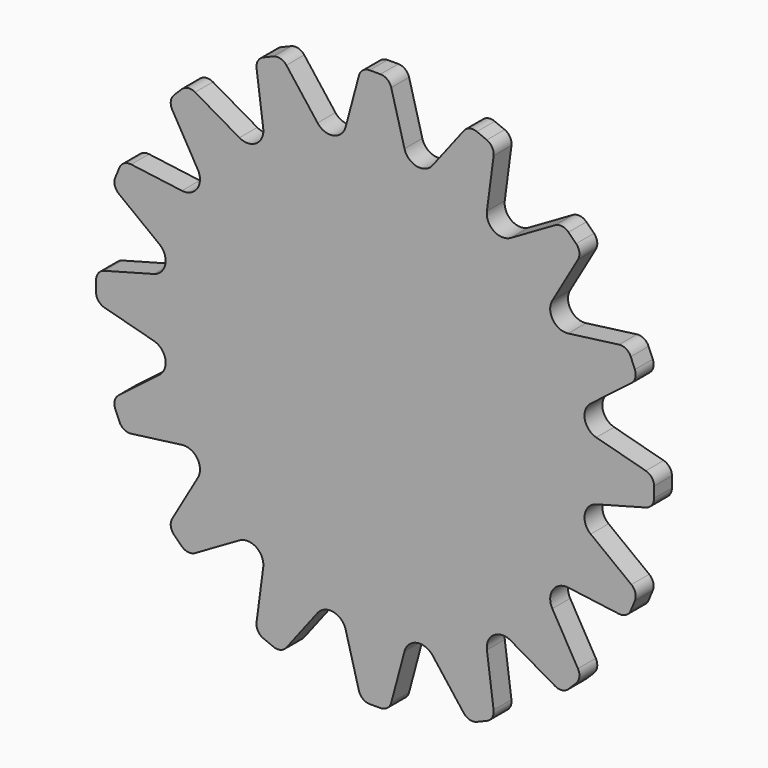
from build123d import *

# Parameters (mm, degrees)
F1_DEPTH = 2.54


with BuildPart() as f1:
    # F0 (on Front) → F1 (new body)
    with BuildSketch(Plane.XZ):
        with BuildLine():
            ThreePointArc((1.839721, 30.8087), (1.386122, 31.487559), (0.612995, 31.75))
            Line((0.612995, 31.75), (-0.612995, 31.75))
            ThreePointArc((-0.612995, 31.75), (-1.386122, 31.487559), (-1.839721, 30.8087))
            Line((-1.839721, 30.8087), (-3.348373, 25.178332))
            ThreePointArc((-3.348373, 25.178332), (-4.747603, 23.86781), (-6.541837, 24.543112))
            Line((-6.541837, 24.543112), (-10.090299, 29.167558))
            ThreePointArc((-10.090299, 29.167558), (-10.769158, 29.621157), (-11.583866, 29.567758))
            Line((-11.583866, 29.567758), (-12.716532, 29.098592))
            ThreePointArc((-12.716532, 29.098592), (-13.330377, 28.560265), (-13.489659, 27.759497))
            Line((-13.489659, 27.759497), (-12.728824, 21.980379))
            ThreePointArc((-12.728824, 21.980379), (-13.520029, 20.234153), (-15.436112, 20.171427))
            Line((-15.436112, 20.171427), (-20.484162, 23.08592))
            ThreePointArc((-20.484162, 23.08592), (-21.28493, 23.245202), (-22.017188, 22.884093))
            Line((-22.017188, 22.884093), (-22.884093, 22.017188))
            ThreePointArc((-22.884093, 22.017188), (-23.245202, 21.28493), (-23.08592, 20.484162))
            Line((-23.08592, 20.484162), (-20.171427, 15.436112))
            ThreePointArc((-20.171427, 15.436112), (-20.234153, 13.520029), (-21.980379, 12.728824))
            Line((-21.980379, 12.728824), (-27.759497, 13.489659))
            ThreePointArc((-27.759497, 13.489659), (-28.560265, 13.330377), (-29.098592, 12.716532))
            Line((-29.098592, 12.716532), (-29.567758, 11.583866))
            ThreePointArc((-29.567758, 11.583866), (-29.621157, 10.769158), (-29.167558, 10.090299))
            Line((-29.167558, 10.090299), (-24.543112, 6.541837))
            ThreePointArc((-24.543112, 6.541837), (-23.86781, 4.747603), (-25.178332, 3.348373))
            Line((-25.178332, 3.348373), (-30.8087, 1.839721))
            ThreePointArc((-30.8087, 1.839721), (-31.487559, 1.386122), (-31.75, 0.612995))
            Line((-31.75, 0.612995), (-31.75, -0.612995))
            ThreePointArc((-31.75, -0.612995), (-31.487559, -1.386122), (-30.8087, -1.839721))
            Line((-30.8087, -1.839721), (-25.178332, -3.348373))
            ThreePointArc((-25.178332, -3.348373), (-23.86781, -4.747603), (-24.543112, -6.541837))
            Line((-24.543112, -6.541837), (-29.167558, -10.090299))
            ThreePointArc((-29.167558, -10.090299), (-29.621157, -10.769158), (-29.567758, -11.583866))
            Line((-29.567758, -11.583866), (-29.098592, -12.716532))
            ThreePointArc((-29.098592, -12.716532), (-28.560265, -13.330377), (-27.759497, -13.489659))
            Line((-27.759497, -13.489659), (-21.980379, -12.728824))
            ThreePointArc((-21.980379, -12.728824), (-20.234153, -13.520029), (-20.171427, -15.436112))
            Line((-20.171427, -15.436112), (-23.08592, -20.484162))
            ThreePointArc((-23.08592, -20.484162), (-23.245202, -21.28493), (-22.884093, -22.017188))
            Line((-22.884093, -22.017188), (-22.017188, -22.884093))
            ThreePointArc((-22.017188, -22.884093), (-21.28493, -23.245202), (-20.484162, -23.08592))
            Line((-20.484162, -23.08592), (-15.436112, -20.171427))
            ThreePointArc((-15.436112, -20.171427), (-13.520029, -20.234153), (-12.728824, -21.980379))
            Line((-12.728824, -21.980379), (-13.489659, -27.759497))
            ThreePointArc((-13.489659, -27.759497), (-13.330377, -28.560265), (-12.716532, -29.098592))
            Line((-12.716532, -29.098592), (-11.583866, -29.567758))
            ThreePointArc((-11.583866, -29.567758), (-10.769158, -29.621157), (-10.090299, -29.167558))
            Line((-10.090299, -29.167558), (-6.541837, -24.543112))
            ThreePointArc((-6.541837, -24.543112), (-4.747603, -23.86781), (-3.348373, -25.178332))
            Line((-3.348373, -25.178332), (-1.839721, -30.8087))
            ThreePointArc((-1.839721, -30.8087), (-1.386122, -31.487559), (-0.612995, -31.75))
            Line((-0.612995, -31.75), (0.612995, -31.75))
            ThreePointArc((0.612995, -31.75), (1.386122, -31.487559), (1.839721, -30.8087))
            Line((1.839721, -30.8087), (3.348373, -25.178332))
            ThreePointArc((3.348373, -25.178332), (4.747603, -23.86781), (6.541837, -24.543112))
            Line((6.541837, -24.543112), (10.090299, -29.167558))
            ThreePointArc((10.090299, -29.167558), (10.769158, -29.621157), (11.583866, -29.567758))
            Line((11.583866, -29.567758), (12.716532, -29.098592))
            ThreePointArc((12.716532, -29.098592), (13.330377, -28.560265), (13.489659, -27.759497))
            Line((13.489659, -27.759497), (12.728824, -21.980379))
            ThreePointArc((12.728824, -21.980379), (13.520029, -20.234153), (15.436112, -20.171427))
            Line((15.436112, -20.171427), (20.484162, -23.08592))
            ThreePointArc((20.484162, -23.08592), (21.28493, -23.245202), (22.017188, -22.884093))
            Line((22.017188, -22.884093), (22.884093, -22.017188))
            ThreePointArc((22.884093, -22.017188), (23.245202, -21.28493), (23.08592, -20.484162))
            Line((23.08592, -20.484162), (20.171427, -15.436112))
            ThreePointArc((20.171427, -15.436112), (20.234153, -13.520029), (21.980379, -12.728824))
            Line((21.980379, -12.728824), (27.759497, -13.489659))
            ThreePointArc((27.759497, -13.489659), (28.560265, -13.330377), (29.098592, -12.716532))
            Line((29.098592, -12.716532), (29.567758, -11.583866))
            ThreePointArc((29.567758, -11.583866), (29.621157, -10.769158), (29.167558, -10.090299))
            Line((29.167558, -10.090299), (24.543112, -6.541837))
            ThreePointArc((24.543112, -6.541837), (23.86781, -4.747603), (25.178332, -3.348373))
            Line((25.178332, -3.348373), (30.8087, -1.839721))
            ThreePointArc((30.8087, -1.839721), (31.487559, -1.386122), (31.75, -0.612995))
            Line((31.75, -0.612995), (31.75, 0.612995))
            ThreePointArc((31.75, 0.612995), (31.487559, 1.386122), (30.8087, 1.839721))
            Line((30.8087, 1.839721), (25.178332, 3.348373))
            ThreePointArc((25.178332, 3.348373), (23.86781, 4.747603), (24.543112, 6.541837))
            Line((24.543112, 6.541837), (29.167558, 10.090299))
            ThreePointArc((29.167558, 10.090299), (29.621157, 10.769158), (29.567758, 11.583866))
            Line((29.567758, 11.583866), (29.098592, 12.716532))
            ThreePointArc((29.098592, 12.716532), (28.560265, 13.330377), (27.759497, 13.489659))
            Line((27.759497, 13.489659), (21.980379, 12.728824))
            ThreePointArc((21.980379, 12.728824), (20.234153, 13.520029), (20.171427, 15.436112))
            Line((20.171427, 15.436112), (23.08592, 20.484162))
            ThreePointArc((23.08592, 20.484162), (23.245202, 21.28493), (22.884093, 22.017188))
            Line((22.884093, 22.017188), (22.017188, 22.884093))
            ThreePointArc((22.017188, 22.884093), (21.28493, 23.245202), (20.484162, 23.08592))
            Line((20.484162, 23.08592), (15.436112, 20.171427))
            ThreePointArc((15.436112, 20.171427), (13.520029, 20.234153), (12.728824, 21.980379))
            Line((12.728824, 21.980379), (13.489659, 27.759497))
            ThreePointArc((13.489659, 27.759497), (13.330377, 28.560265), (12.716532, 29.098592))
            Line((12.716532, 29.098592), (11.583866, 29.567758))
            ThreePointArc((11.583866, 29.567758), (10.769158, 29.621157), (10.090299, 29.167558))
            Line((10.090299, 29.167558), (6.541837, 24.543112))
            ThreePointArc((6.541837, 24.543112), (4.747603, 23.86781), (3.348373, 25.178332))
            Line((3.348373, 25.178332), (1.839721, 30.8087))
        make_face()
    extrude(amount=F1_DEPTH)


solid = f1.part
